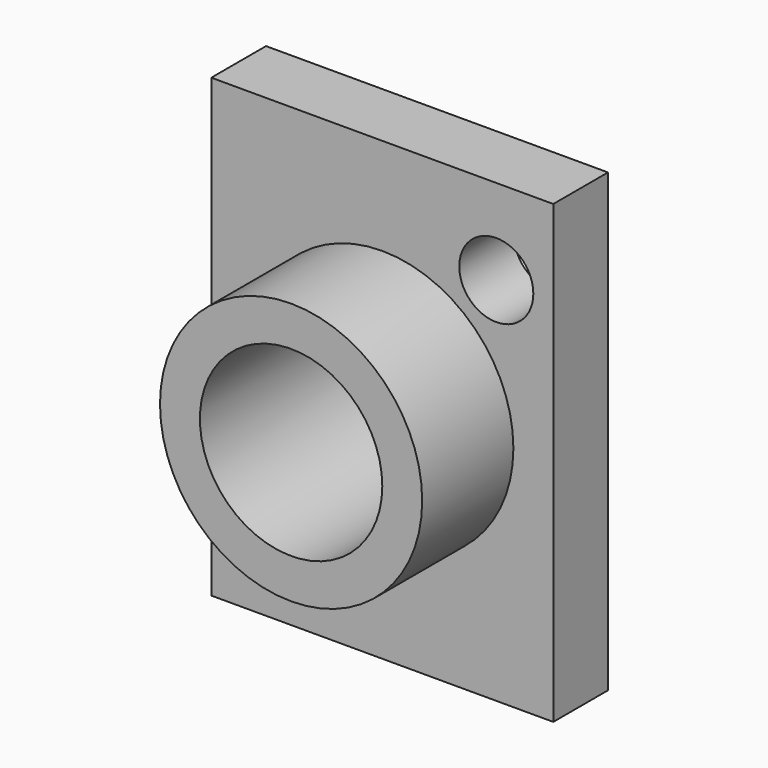
from build123d import *

# Parameters (mm, degrees)
F0_W     = 30
F0_H     = 40
F0_R     = 3.25
F0_R_2   = 8
F1_DEPTH = 6
F2_R     = 11.5
F2_R_2   = 8
F3_DEPTH = 10


with BuildPart() as f1:
    # F0 (on Front) → F1 (new body)
    with BuildSketch(Plane.XZ):
        with Locations((15, 20)):
            Rectangle(F0_W, F0_H)
        with Locations((5, 7.5)):
            Circle(F0_R, mode=Mode.SUBTRACT)
        with Locations((15, 20)):
            Circle(F0_R_2, mode=Mode.SUBTRACT)
        with Locations((25, 32.5)):
            Circle(F0_R, mode=Mode.SUBTRACT)
    extrude(amount=F1_DEPTH)

    # F2 (on face) → F3 (join)
    with BuildSketch(Plane.XZ.offset(6)):
        with Locations((15, 20)):
            Circle(F2_R)
        with Locations((15, 20)):
            Circle(F2_R_2, mode=Mode.SUBTRACT)
    extrude(amount=F3_DEPTH)


solid = f1.part
